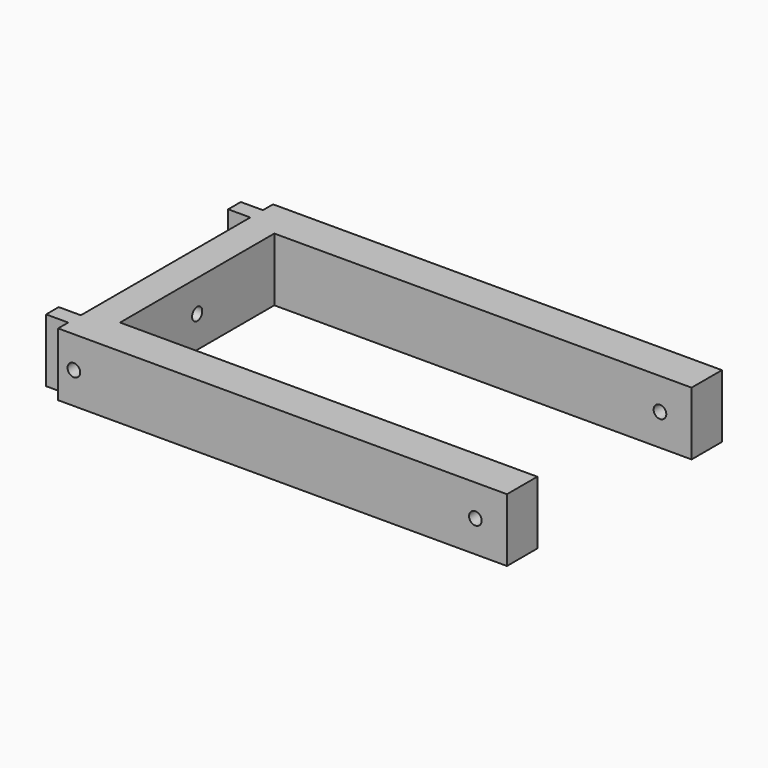
from build123d import *

# Parameters (mm, degrees)
PAD_DEPTH       = 20
SKETCH004_R     = 2
POCKET002_DEPTH = 142.001
SKETCH005_R     = 2
POCKET003_DEPTH = 85.001


with BuildPart() as part:
    # Sketch → Pad (new body)
    with BuildSketch(Plane.XY):
        Polygon((-10, -42.5), (132, -42.5), (132, -30.5), (0, -30.5), (0, 30.5), (132, 30.5), (132, 42.5), (-10, 42.5), (-10, 38.5), (-17, 38.5), (-17, 33.5), (-10, 33.5), (-10, -33.5), (-17, -33.5), (-17, -38.5), (-10, -38.5), align=None)
    extrude(amount=PAD_DEPTH)

    # Sketch004 → Pocket002 (cut, through all)
    with BuildSketch(Plane(origin=(-10, 0, 0), x_dir=(0, -1, 0), z_dir=(-1, 0, 0))):
        with Locations((0, 10)):
            Circle(SKETCH004_R)
    extrude(amount=-POCKET002_DEPTH, mode=Mode.SUBTRACT)

    # Sketch005 → Pocket003 (cut, through all)
    with BuildSketch(Plane.XZ.offset(42.5)):
        with Locations((-5, 10)):
            Circle(SKETCH005_R)
        with Locations((122, 10)):
            Circle(SKETCH005_R)
    extrude(amount=-POCKET003_DEPTH, mode=Mode.SUBTRACT)


solid = part.part
